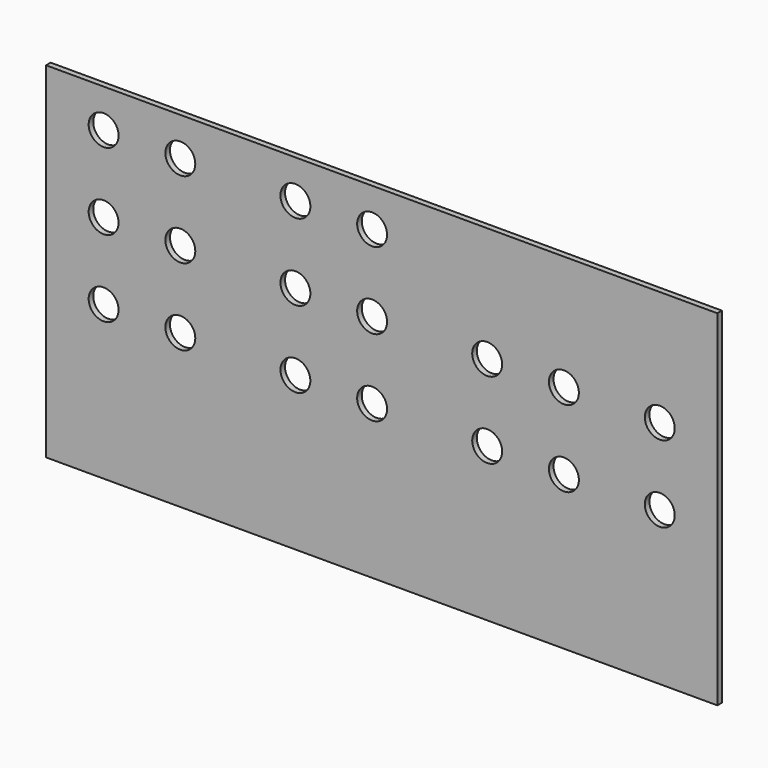
from build123d import *

# Parameters (mm, degrees)
F0_W     = 175
F0_H     = 90
F0_R     = 3.9
F1_DEPTH = 1.5


with BuildPart() as f1:
    # F0 (on Front) → F1 (new body)
    with BuildSketch(Plane.XZ):
        Rectangle(F0_W, F0_H)
        with Locations((-72.5, -5)):
            Circle(F0_R, mode=Mode.SUBTRACT)
        with Locations((-52.5, -5)):
            Circle(F0_R, mode=Mode.SUBTRACT)
        with Locations((-22.5, -5)):
            Circle(F0_R, mode=Mode.SUBTRACT)
        with Locations((-2.5, -5)):
            Circle(F0_R, mode=Mode.SUBTRACT)
        with Locations((27.5, -5)):
            Circle(F0_R, mode=Mode.SUBTRACT)
        with Locations((47.5, -5)):
            Circle(F0_R, mode=Mode.SUBTRACT)
        with Locations((72.5, -5)):
            Circle(F0_R, mode=Mode.SUBTRACT)
        with Locations((-72.5, 15)):
            Circle(F0_R, mode=Mode.SUBTRACT)
        with Locations((-52.5, 15)):
            Circle(F0_R, mode=Mode.SUBTRACT)
        with Locations((-22.5, 15)):
            Circle(F0_R, mode=Mode.SUBTRACT)
        with Locations((-2.5, 15)):
            Circle(F0_R, mode=Mode.SUBTRACT)
        with Locations((-72.5, 35)):
            Circle(F0_R, mode=Mode.SUBTRACT)
        with Locations((-52.5, 35)):
            Circle(F0_R, mode=Mode.SUBTRACT)
        with Locations((-22.5, 35)):
            Circle(F0_R, mode=Mode.SUBTRACT)
        with Locations((-2.5, 35)):
            Circle(F0_R, mode=Mode.SUBTRACT)
        with Locations((27.5, 15)):
            Circle(F0_R, mode=Mode.SUBTRACT)
        with Locations((47.5, 15)):
            Circle(F0_R, mode=Mode.SUBTRACT)
        with Locations((72.5, 15)):
            Circle(F0_R, mode=Mode.SUBTRACT)
    extrude(amount=-F1_DEPTH)


solid = f1.part
